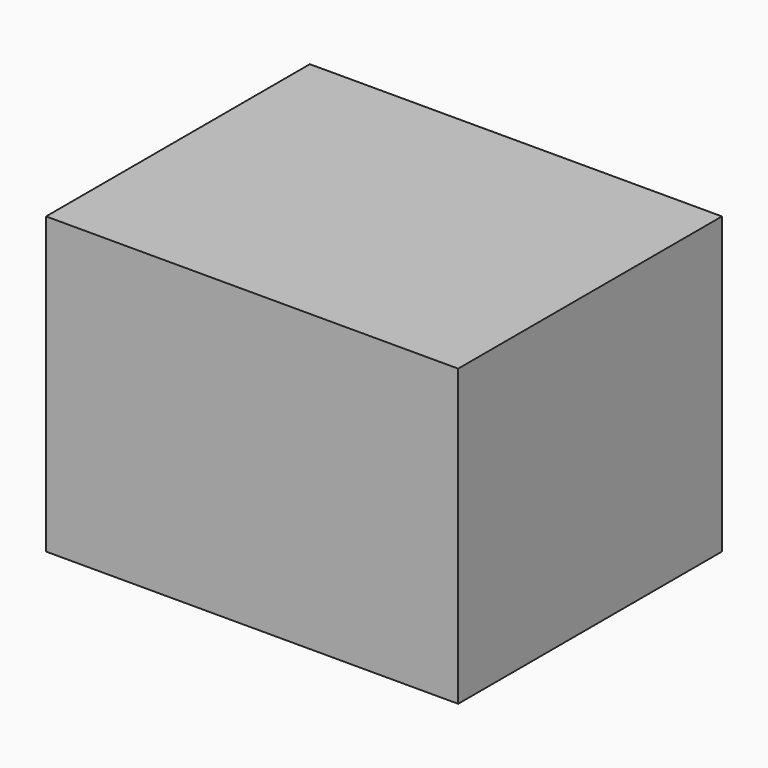
from build123d import *

# Parameters (mm, degrees)
F0_W          = 127
F0_H          = 101.6
F1_DEPTH      = 47.16881
F1_DEPTH_BACK = 43.77191


with BuildPart() as f1:
    # F0 (on Top) → F1 (new body, two sides)
    with BuildSketch(Plane.XY) as f1_sk:
        with Locations((-0.8154930635, 2.1233074367)):
            Rectangle(F0_W, F0_H)
    extrude(amount=-F1_DEPTH)
    extrude(f1_sk.sketch, amount=F1_DEPTH_BACK)


solid = f1.part
